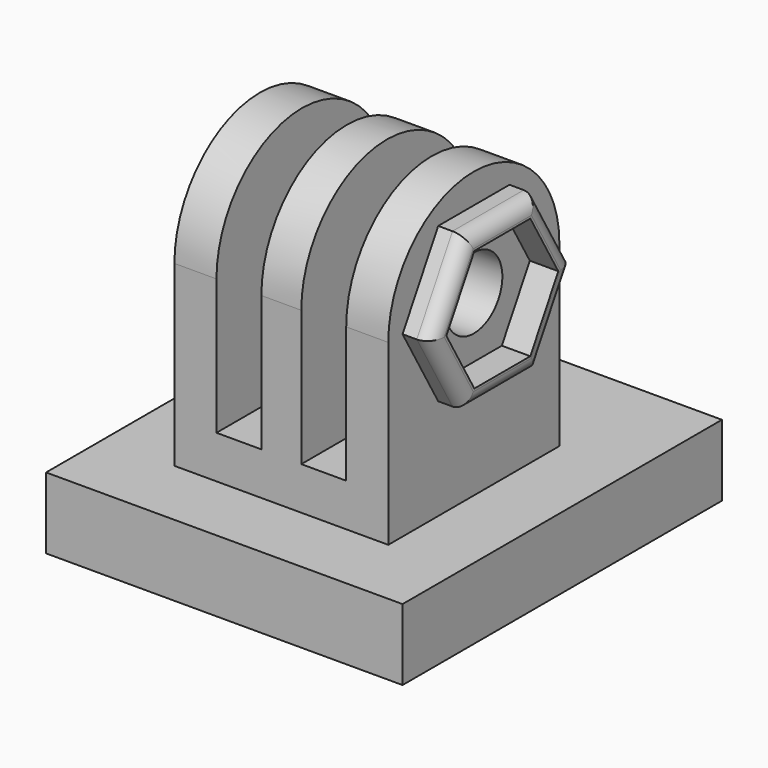
from build123d import *

# Parameters (mm, degrees)
F0_W      = 15
F0_H      = 3
F1_DEPTH  = 15
F2_DEPTH  = 3
F3_DEPTH  = 3
F4_DEPTH  = 2
F5_DEPTH  = 3
F6_DEPTH  = 12
F7_D      = 5
F7_DEPTH  = 15
F9_W      = 3.15
F9_H      = 15
F10_DEPTH = 17
F11_R     = 1
F12_W     = 25
F12_H     = 28
F12_W_2   = 15
F12_H_2   = 15
F13_DEPTH = 5
F1_FACE_W = 15
F1_FACE_H = 15
F14_DEPTH = 8


with BuildPart() as f1:
    # F0 (on Right) → F1 (new body)
    with BuildSketch(Plane.YZ):
        with Locations((0, 1.5)):
            Rectangle(F0_W, F0_H)
    extrude(amount=-F1_DEPTH)

    # F0 (on Right) → F2 (join)
    with BuildSketch(Plane.YZ):
        with BuildLine():
            Line((-7.5, 12.5), (-7.5, 3))
            Line((-7.5, 3), (7.5, 3))
            Line((7.5, 3), (7.5, 12.5))
            ThreePointArc((7.5, 12.5), (0, 20), (-7.5, 12.5))
        make_face()
        Polygon((-6.25, 12.5), (-3.125, 17.912659), (3.125, 17.912659), (6.25, 12.5), (3.125, 7.087341), (-3.125, 7.087341), align=None, mode=Mode.SUBTRACT)
    extrude(amount=-F2_DEPTH)

    # F0 (on Right) → F3 (join)
    with BuildSketch(Plane.YZ):
        Polygon((3.125, 17.912659), (-3.125, 17.912659), (-6.25, 12.5), (-3.125, 7.087341), (3.125, 7.087341), (6.25, 12.5), align=None)
        Polygon((-4.907477, 12.5), (-2.453739, 16.75), (2.453739, 16.75), (4.907477, 12.5), (2.453739, 8.25), (-2.453739, 8.25), align=None, mode=Mode.SUBTRACT)
    extrude(amount=-F3_DEPTH)

    # F0 (on Right) → F4 (join)
    with BuildSketch(Plane.YZ):
        Polygon((3.125, 17.912659), (-3.125, 17.912659), (-6.25, 12.5), (-3.125, 7.087341), (3.125, 7.087341), (6.25, 12.5), align=None)
        Polygon((-4.907477, 12.5), (-2.453739, 16.75), (2.453739, 16.75), (4.907477, 12.5), (2.453739, 8.25), (-2.453739, 8.25), align=None, mode=Mode.SUBTRACT)
    extrude(amount=F4_DEPTH)

    # F0 (on Right) → F5 (join)
    with BuildSketch(Plane.YZ):
        Polygon((2.453739, 16.75), (-2.453739, 16.75), (-4.907477, 12.5), (-2.453739, 8.25), (2.453739, 8.25), (4.907477, 12.5), align=None)
    extrude(amount=-F5_DEPTH)

    # F5_face (on face) → F6 (join)
    with BuildSketch(Plane(origin=(-3, 0, 10.786279), x_dir=(0, 1, 0), z_dir=(-1, 0, 0))):
        with BuildLine():
            Line((-7.5, 7.786279), (-7.5, -1.713721))
            ThreePointArc((-7.5, -1.713721), (0, -9.213721), (7.5, -1.713721))
            Line((7.5, -1.713721), (7.5, 7.786279))
            Line((7.5, 7.786279), (-7.5, 7.786279))
        make_face()
    extrude(amount=F6_DEPTH)

    # F7
    with Locations(Plane.YZ):
        with Locations((0, 12.5)):
            Hole(F7_D / 2, depth=F7_DEPTH)

    # F9 (on offset) → F10 (cut)
    with BuildSketch(Plane.XY.offset(20)):
        with Locations((-10.475, 0)):
            Rectangle(F9_W, F9_H)
        with Locations((-4.525, 0)):
            Rectangle(F9_W, F9_H)
    extrude(amount=-F10_DEPTH, mode=Mode.SUBTRACT)

    # F11
    f11_edges = [f1.edges().sort_by_distance(p)[0] for p in [
        (2, -4.6875, 9.793671),
        (2, 0, 7.087341),
        (2, -4.6875, 15.206329),
        (2, 0, 17.912659),
        (2, 4.6875, 15.206329),
        (2, 4.6875, 9.793671),
    ]]
    fillet(f11_edges, radius=F11_R)


with BuildPart() as f13:
    # F12 (on face) → F13 (new body)
    with BuildSketch(Plane(origin=(0, 0, 0), x_dir=(1, 0, 0), z_dir=(0, 0, -1))):
        with Locations((-7.5, -1.5)):
            Rectangle(F12_W, F12_H)
        with Locations((-7.5, 0)):
            Rectangle(F12_W_2, F12_H_2, mode=Mode.SUBTRACT)
    extrude(amount=F13_DEPTH)


with BuildPart() as f14:
    # F1_face (on face) → F14 (new body)
    with BuildSketch(Plane(origin=(-7.5, 0, 0), x_dir=(1, 0, 0), z_dir=(0, 0, -1))):
        Rectangle(F1_FACE_W, F1_FACE_H)
    extrude(amount=F14_DEPTH)


solid = Compound([f1.part, f13.part, f14.part])
